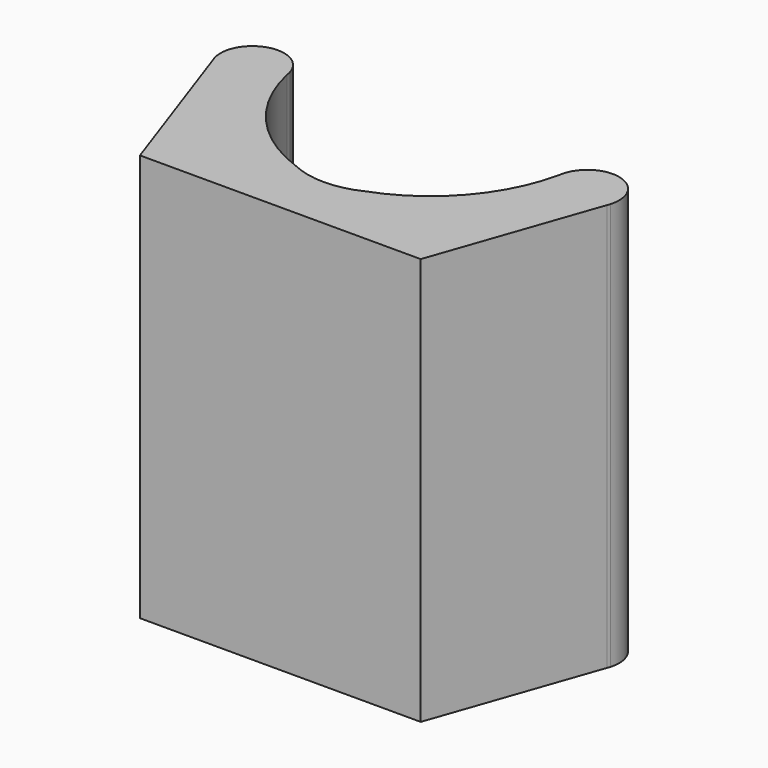
from build123d import *

# Parameters (mm, degrees)
F1_DEPTH = 6.53


with BuildPart() as f1:
    # F0 (on Top) → F1 (new body)
    with BuildSketch(Plane.XY):
        with BuildLine():
            Line((-2.25, 0), (0, 0))
            Line((0, 0), (2.25, 0))
            Line((2.25, 0), (3.156994, 2.602679))
            Line((3.156994, 2.602679), (3.173864, 2.651089))
            ThreePointArc((3.173864, 2.651089), (2.825283, 3.284668), (2.193543, 2.932764))
            ThreePointArc((2.193543, 2.932764), (2.186252, 2.895291), (2.178403, 2.85793))
            ThreePointArc((2.178403, 2.85793), (1.604596, 1.718806), (0.551908, 0.998591))
            ThreePointArc((0.551908, 0.998591), (0, 0.87272), (-0.551908, 0.998591))
            ThreePointArc((-0.551908, 0.998591), (-1.604596, 1.718806), (-2.178403, 2.85793))
            ThreePointArc((-2.178403, 2.85793), (-2.186252, 2.895291), (-2.193543, 2.932764))
            ThreePointArc((-2.193543, 2.932764), (-2.350233, 3.179732), (-2.616842, 3.3))
            Line((-2.616842, 3.3), (-2.752045, 3.3))
            ThreePointArc((-2.752045, 3.3), (-3.112041, 3.072457), (-3.173864, 2.651089))
            Line((-3.173864, 2.651089), (-3.156994, 2.602679))
            Line((-3.156994, 2.602679), (-2.25, 0))
        make_face()
        with BuildLine():
            ThreePointArc((-3.173864, 2.651089), (-3.166038, 2.626672), (-3.156994, 2.602679))
            Line((-3.156994, 2.602679), (-3.173864, 2.651089))
        make_face()
        with BuildLine():
            Line((3.173864, 2.651089), (3.156994, 2.602679))
            ThreePointArc((3.156994, 2.602679), (3.166038, 2.626672), (3.173864, 2.651089))
        make_face()
        with BuildLine():
            ThreePointArc((-2.616842, 3.3), (-2.684443, 3.3045), (-2.752045, 3.3))
            Line((-2.752045, 3.3), (-2.616842, 3.3))
        make_face()
        with BuildLine():
            ThreePointArc((2.178403, 2.85793), (2.186252, 2.895291), (2.193543, 2.932764))
            ThreePointArc((2.193543, 2.932764), (2.18457, 2.895631), (2.178403, 2.85793))
        make_face()
        with BuildLine():
            ThreePointArc((-2.178403, 2.85793), (-2.18457, 2.895631), (-2.193543, 2.932764))
            ThreePointArc((-2.193543, 2.932764), (-2.186252, 2.895291), (-2.178403, 2.85793))
        make_face()
    extrude(amount=F1_DEPTH)


solid = f1.part
